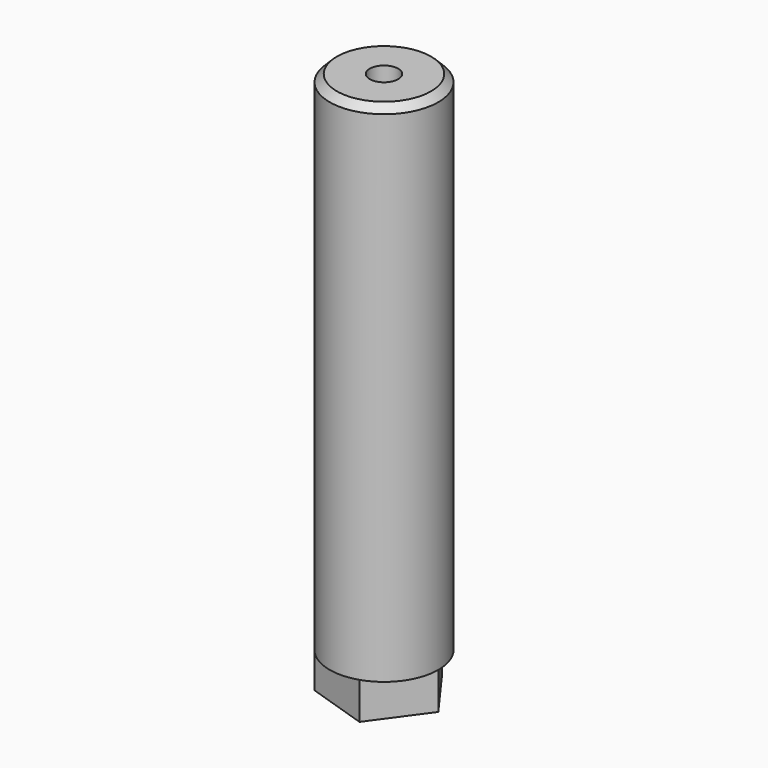
from build123d import *

# Parameters (mm, degrees)
F0_R     = 19.05
F0_R_2   = 5.000003
F1_DEPTH = 177.8
F2_R     = 10.000005
F3_DEPTH = 12.999999
F4_SIZE  = 2.54


with BuildPart() as f1:
    # F0 (on Top) → F1 (new body)
    with BuildSketch(Plane.XY):
        Circle(F0_R)
        Circle(F0_R_2, mode=Mode.SUBTRACT)
    extrude(amount=F1_DEPTH)

    # F2 (on Top) → F3 (join)
    with BuildSketch(Plane.XY):
        Polygon((5.886217, -18.115914), (19.048199, 0), (5.886217, 18.115914), (-15.410317, 11.19625), (-15.410317, -11.19625), align=None)
        Circle(F2_R, mode=Mode.SUBTRACT)
    extrude(amount=-F3_DEPTH)

    # F4
    f4_edges = [f1.edges().sort_by_distance(p)[0] for p in [
        (-19.05, 0, 177.8),
    ]]
    chamfer(f4_edges, length=F4_SIZE)


solid = f1.part
